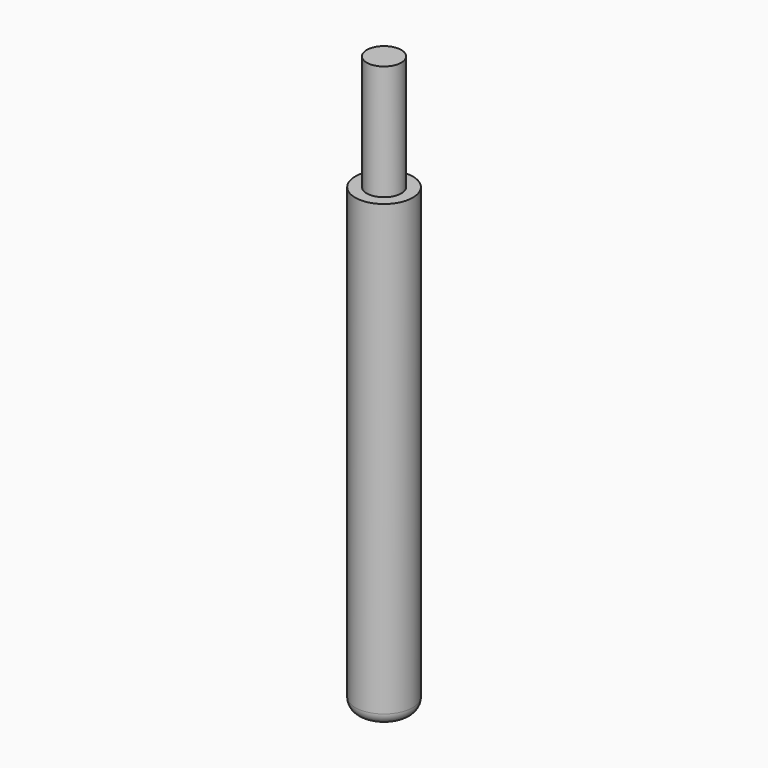
from build123d import *


with BuildPart() as part:
    # Sketch → Revolution (revolve)
    with BuildSketch(Plane.XZ):
        with BuildLine():
            Line((0, 50), (0, 0))
            Line((0, 0), (1.5, 0))
            ThreePointArc((1.5, 0), (2.207107, 0.292893), (2.5, 1))
            Line((2.5, 1), (2.5, 40))
            Line((1.5, 40), (2.5, 40))
            Line((1.5, 50), (1.5, 40))
            Line((1.5, 50), (0, 50))
        make_face()
    revolve(axis=Axis((0, 0, 0), (0, 0, 1)))


solid = part.part
